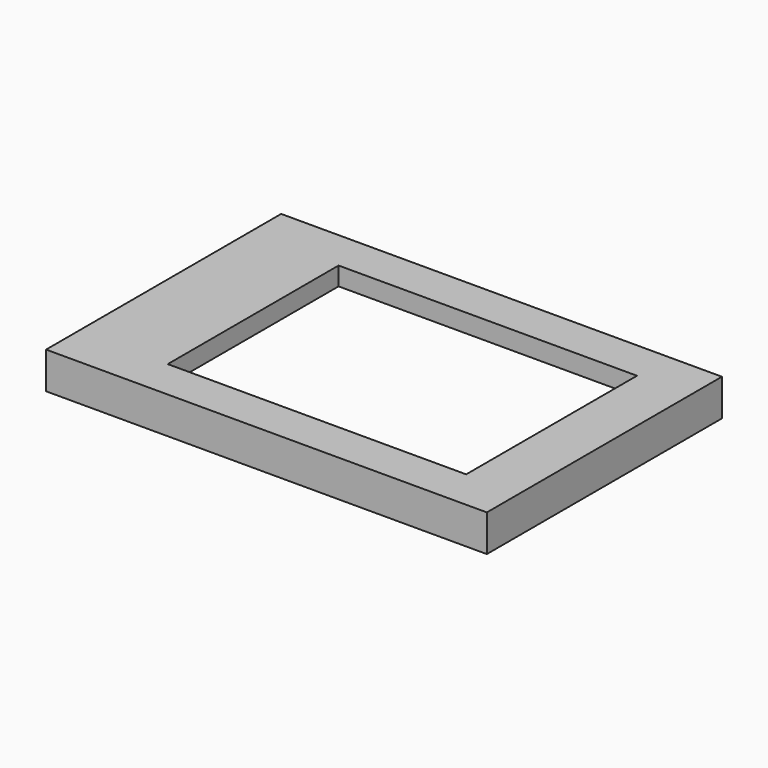
from build123d import *

# Parameters (mm, degrees)
F0_W     = 412.75
F0_H     = 295.275
F1_DEPTH = 25.4
F2_W     = 19.05
F2_H     = 387.35
F3_DEPTH = 25.4


with BuildPart() as f1:
    # F0 (on Top) → F1 (new body)
    with BuildSketch(Plane.XY):
        Polygon((279.4, -203.2), (279.4, 203.2), (-279.4, 203.2), (-330.2, 203.2), (-330.2, -203.2), (-279.4, -203.2), align=None)
        Rectangle(F0_W, F0_H, mode=Mode.SUBTRACT)
    extrude(amount=F1_DEPTH)

    # F2 (on face) → F3 (join)
    with BuildSketch(Plane(origin=(0, 0, 0), x_dir=(1, 0, 0), z_dir=(0, 0, -1))):
        Polygon((279.4, 203.2), (-330.2, 203.2), (-330.2, 184.15), (-311.15, 184.15), (260.35, 184.15), (279.4, 184.15), align=None)
        with Locations((269.875, -9.525)):
            Rectangle(F2_W, F2_H)
        with Locations((-320.675, -9.525)):
            Rectangle(F2_W, F2_H)
    extrude(amount=F3_DEPTH)


solid = f1.part
